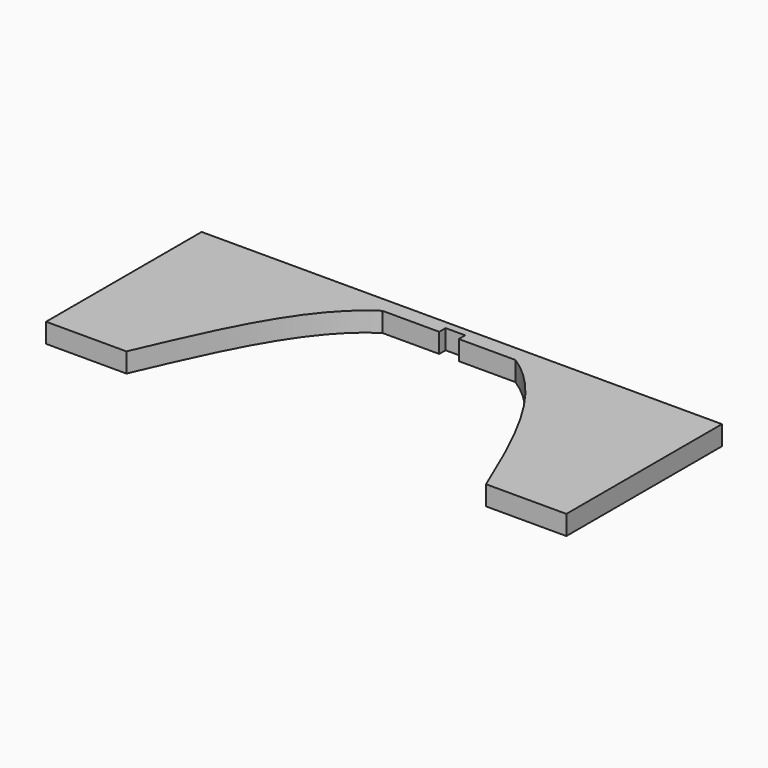
from build123d import *

# Parameters (mm, degrees)
F1_DEPTH = 22


with BuildPart() as f1:
    # F0 (on Top) → F1 (new body)
    with BuildSketch(Plane.XY):
        with BuildLine():
            Line((202.5, -109.5), (293, -109.5))
            Line((293, -109.5), (293, 109.5))
            Line((293, 109.5), (32.6773387732, 109.5))
            add(Edge.make_bspline(
                [(74.9294082342, 91.5), (61.7405144002, 99.9304487992), (47.4387981896, 105.9320967679), (32.6773387732, 109.5)],
                knots=[0.3579727823, 0.3579727823, 0.3579727823, 0.3579727823, 0.4400089726, 0.4400089726, 0.4400089726, 0.4400089726], degree=3))
            add(Edge.make_bspline(
                [(202.5, -109.5), (168.8421975508, -28.3208648604), (132.4804111129, 54.7129283005), (74.9294082342, 91.5)],
                knots=[0, 0, 0, 0, 0.3579727823, 0.3579727823, 0.3579727823, 0.3579727823], degree=3))
        make_face()
        with BuildLine():
            Line((11, 91.5), (74.9294082342, 91.5))
            add(Edge.make_bspline(
                [(74.9294082342, 91.5), (61.7405144002, 99.9304487992), (47.4387981896, 105.9320967679), (32.6773387732, 109.5)],
                knots=[0.3579727823, 0.3579727823, 0.3579727823, 0.3579727823, 0.4400089726, 0.4400089726, 0.4400089726, 0.4400089726], degree=3))
            Line((32.6773387732, 109.5), (-33.0866336258, 109.5))
            add(Edge.make_bspline(
                [(-33.0866336258, 109.5), (-47.7694427679, 105.9345063088), (-61.9571727667, 99.9361460626), (-75, 91.5)],
                knots=[0.5601560048, 0.5601560048, 0.5601560048, 0.5601560048, 0.6420556533, 0.6420556533, 0.6420556533, 0.6420556533], degree=3))
            Line((-75, 91.5), (-11, 91.5))
            Line((-11, 91.5), (-11, 100.5))
            Line((-11, 100.5), (11, 100.5))
            Line((11, 100.5), (11, 91.5))
        make_face()
        with BuildLine():
            Line((-293, -109.5), (-202.5, -109.5))
            add(Edge.make_bspline(
                [(-75, 91.5), (-132.0039842831, 54.6296245085), (-167.1386352145, -28.8060596399), (-202.5, -109.5)],
                knots=[0.6420556533, 0.6420556533, 0.6420556533, 0.6420556533, 1, 1, 1, 1], degree=3))
            add(Edge.make_bspline(
                [(-33.0866336258, 109.5), (-47.7694427679, 105.9345063088), (-61.9571727667, 99.9361460626), (-75, 91.5)],
                knots=[0.5601560048, 0.5601560048, 0.5601560048, 0.5601560048, 0.6420556533, 0.6420556533, 0.6420556533, 0.6420556533], degree=3))
            Line((-33.0866336258, 109.5), (-293, 109.5))
            Line((-293, 109.5), (-293, -109.5))
        make_face()
    extrude(amount=F1_DEPTH)


solid = f1.part
